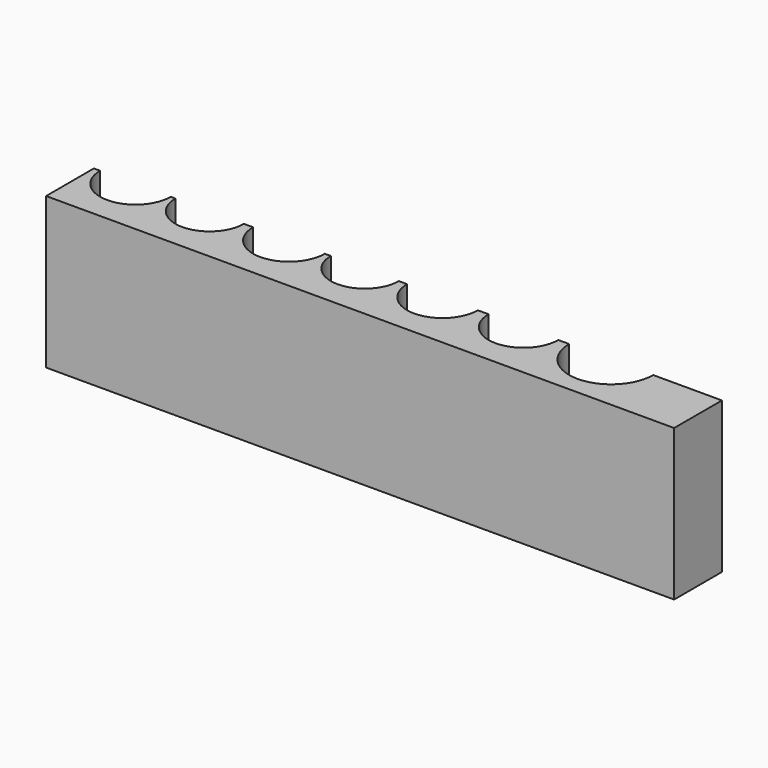
from build123d import *

# Parameters (mm, degrees)
F0_W     = 103.95483
F0_H     = 19.77795
F1_DEPTH = 25
F2_R     = 5.8387
F2_R_2   = 5.669985
F2_R_3   = 5.932122
F2_R_4   = 5.628572
F2_R_5   = 5.846051
F2_R_6   = 5.772215
F2_R_7   = 6.949194
F3_DEPTH = 25
F4_W     = 109.984688
F4_H     = 10.371363
F5_DEPTH = 25


with BuildPart() as f1:
    # F0 (on Top) → F1 (new body)
    with BuildSketch(Plane.XY):
        Rectangle(F0_W, F0_H)
    extrude(amount=F1_DEPTH)

    # F2 (on Top) → F3 (cut)
    with BuildSketch(Plane.XY):
        with Locations((-45.099735, 0)):
            Circle(F2_R)
        with Locations((-32.812502, 0)):
            Circle(F2_R_2)
        with Locations((-19.687502, 0)):
            Circle(F2_R_3)
        with Locations((-7.12101, 0)):
            Circle(F2_R_4)
        with Locations((5.724736, 0)):
            Circle(F2_R_5)
        with Locations((19.128991, 0)):
            Circle(F2_R_6)
        with Locations((33.650268, 0)):
            Circle(F2_R_7)
    extrude(amount=F3_DEPTH, mode=Mode.SUBTRACT)

    # F4 (on Top) → F5 (cut)
    with BuildSketch(Plane.XY):
        with Locations((2.050154, 5.185681)):
            Rectangle(F4_W, F4_H)
    extrude(amount=F5_DEPTH, mode=Mode.SUBTRACT)


solid = f1.part
